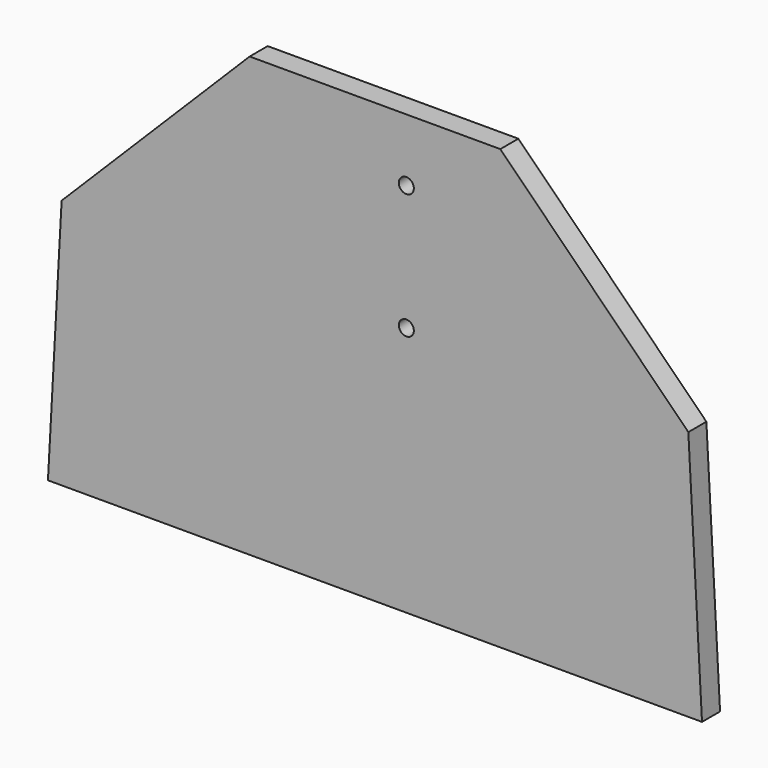
from build123d import *

# Parameters (mm, degrees)
F1_DEPTH = 18
F3_R     = 6
F4_DEPTH = 25


with BuildPart() as f1:
    # F0 (on Front) → F1 (new body)
    with BuildSketch(Plane.XZ):
        Polygon((180.357315, 283.020994), (180.357315, -66.979006), (441.269071, -66.979006), (430.357315, 133.020994), (280.357315, 283.020994), align=None)
    extrude(amount=F1_DEPTH)

    # F2: F1 across face


with BuildPart() as f1_1:
    add(f1.part)
    add(f1.part.mirror(Plane(origin=(180.357315, -9, 108.020994), x_dir=(0, -1, 0), z_dir=(-1, 0, 0))))

    # F3 (on face) → F4 (cut)
    with BuildSketch(Plane.XZ.offset(18)):
        with Locations((205.357315, 233.020994)):
            Circle(F3_R)
        with Locations((205.357315, 133.020994)):
            Circle(F3_R)
    extrude(amount=-F4_DEPTH, mode=Mode.SUBTRACT)


solid = f1_1.part
